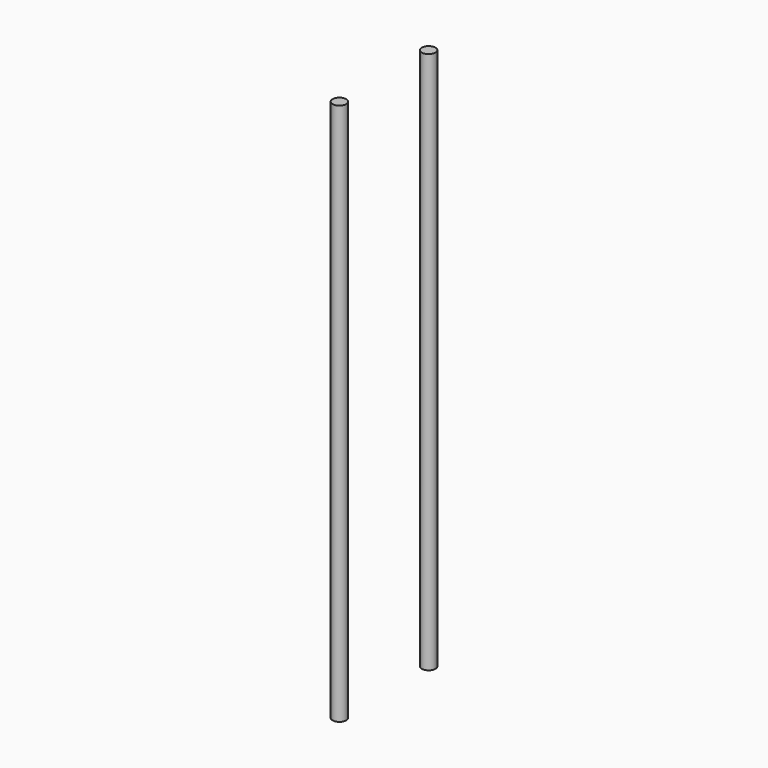
from build123d import *

# Parameters (mm, degrees)
BINDER_R      = 2.5
EXTRUDE_DEPTH = 199.4


with BuildPart() as extrude_body:
    # Binder → Extrude (new body)
    with BuildSketch(Plane(origin=(-12.5, -20.5, 0), x_dir=(0, 1, 0), z_dir=(0, 0, 1))):
        Circle(BINDER_R)
        with Locations((41, 0)):
            Circle(BINDER_R)
    extrude(amount=EXTRUDE_DEPTH)


with BuildPart() as mirror:
    # Part__Mirroring: instance of Extrude body
    add(extrude_body.part.mirror(Plane(origin=(0, 0, 0), x_dir=(0, -1, 0), z_dir=(1, 0, 0))))


solid = mirror.part
